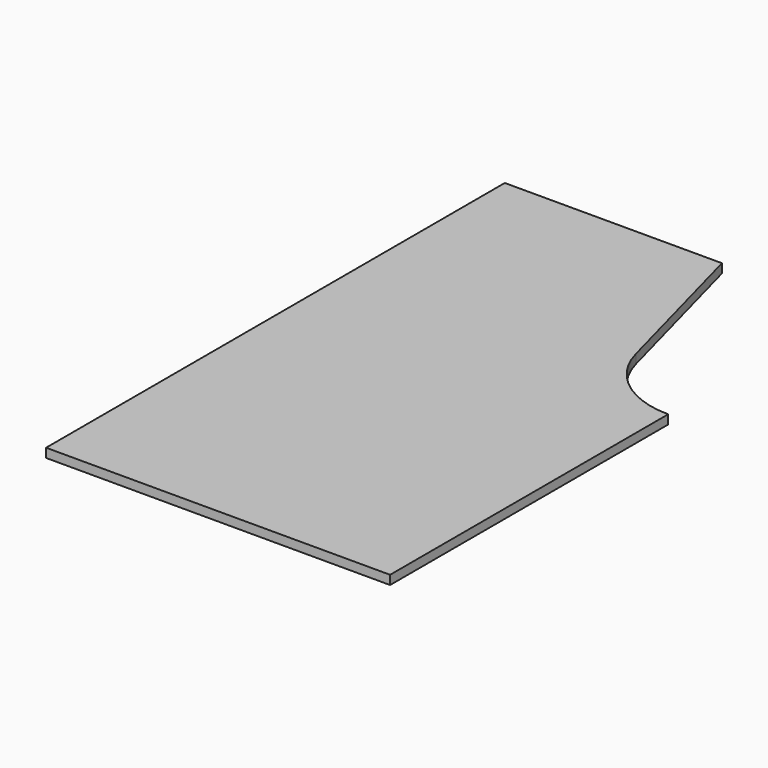
from build123d import *

# Parameters (mm, degrees)
F0_W     = 76.2
F0_H     = 127
F1_DEPTH = 2
F3_DEPTH = 25


with BuildPart() as f1:
    # F0 (on Top) → F1 (new body)
    with BuildSketch(Plane.XY):
        Rectangle(F0_W, F0_H)
    extrude(amount=F1_DEPTH)

    # F2 (on face) → F3 (cut)
    with BuildSketch(Plane.XY.offset(2)):
        with BuildLine():
            Line((38.1, 63.5), (10, 63.5))
            Line((10, 63.5), (19.592162, 27.701563))
            ThreePointArc((19.592162, 27.701563), (26.43569, 17.4595), (38.1, 13.5))
            Line((38.1, 13.5), (38.1, 63.5))
        make_face()
    extrude(amount=-F3_DEPTH, mode=Mode.SUBTRACT)


solid = f1.part
